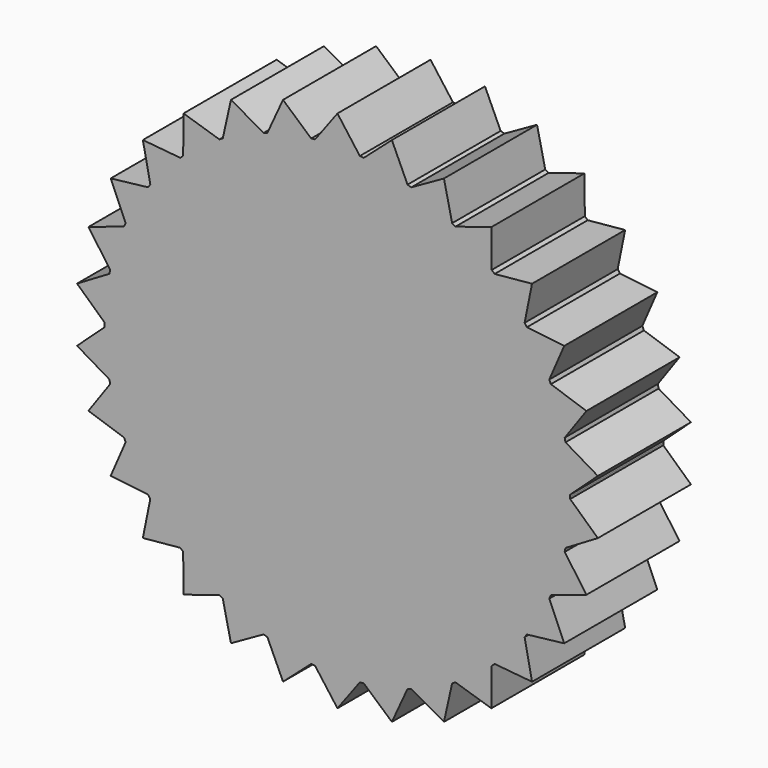
from build123d import *

# Parameters (mm, degrees)
F1_DEPTH = 12.7


with BuildPart() as f1:
    # F0 (on Front) → F1 (new body)
    with BuildSketch(Plane.XZ):
        with BuildLine():
            ThreePointArc((25.399116, -0.211948), (25.399779, -0.105975), (25.4, 0))
            ThreePointArc((25.4, 0), (25.399779, 0.105975), (25.399116, 0.211948))
            ThreePointArc((25.399116, 0.211948), (25.260856, 2.655023), (24.888151, 5.073456))
            ThreePointArc((24.888151, 5.073456), (24.844949, 5.280957), (24.800018, 5.48809))
            ThreePointArc((24.800018, 5.48809), (24.156836, 7.849032), (23.289454, 10.137127))
            ThreePointArc((23.289454, 10.137127), (23.204055, 10.331111), (23.11704, 10.524375))
            ThreePointArc((23.11704, 10.524375), (21.997045, 12.7), (20.672896, 14.757756))
            ThreePointArc((20.672896, 14.757756), (20.549032, 14.929745), (20.423736, 15.100695))
            ThreePointArc((20.423736, 15.100695), (18.875879, 16.995917), (17.152834, 18.7334))
            ThreePointArc((17.152834, 18.7334), (16.995917, 18.875879), (16.837817, 19.017043))
            ThreePointArc((16.837817, 19.017043), (14.929745, 20.549032), (12.88311, 21.890305))
            ThreePointArc((12.88311, 21.890305), (12.7, 21.997045), (12.516005, 22.102254))
            ThreePointArc((12.516005, 22.102254), (10.331111, 23.204055), (8.050333, 24.090499))
            ThreePointArc((8.050333, 24.090499), (7.849032, 24.156836), (7.647184, 24.22149))
            ThreePointArc((7.647184, 24.22149), (5.280957, 24.844949), (2.865718, 25.237822))
            ThreePointArc((2.865718, 25.237822), (2.655023, 25.260856), (2.444143, 25.282131))
            ThreePointArc((2.444143, 25.282131), (1.223492, 25.370516), (0, 25.4))
            ThreePointArc((0, 25.4), (-1.223492, 25.370516), (-2.444143, 25.282131))
            ThreePointArc((-2.444143, 25.282131), (-2.655023, 25.260856), (-2.865718, 25.237822))
            ThreePointArc((-2.865718, 25.237822), (-5.280957, 24.844949), (-7.647184, 24.22149))
            ThreePointArc((-7.647184, 24.22149), (-7.849032, 24.156836), (-8.050333, 24.090499))
            ThreePointArc((-8.050333, 24.090499), (-10.331111, 23.204055), (-12.516005, 22.102254))
            ThreePointArc((-12.516005, 22.102254), (-12.7, 21.997045), (-12.88311, 21.890305))
            ThreePointArc((-12.88311, 21.890305), (-14.929745, 20.549032), (-16.837817, 19.017043))
            ThreePointArc((-16.837817, 19.017043), (-16.995917, 18.875879), (-17.152834, 18.7334))
            ThreePointArc((-17.152834, 18.7334), (-18.875879, 16.995917), (-20.423736, 15.100695))
            ThreePointArc((-20.423736, 15.100695), (-20.549032, 14.929745), (-20.672896, 14.757756))
            ThreePointArc((-20.672896, 14.757756), (-21.997045, 12.7), (-23.11704, 10.524375))
            ThreePointArc((-23.11704, 10.524375), (-23.204055, 10.331111), (-23.289454, 10.137127))
            ThreePointArc((-23.289454, 10.137127), (-24.156836, 7.849032), (-24.800018, 5.48809))
            ThreePointArc((-24.800018, 5.48809), (-24.844949, 5.280957), (-24.888151, 5.073456))
            ThreePointArc((-24.888151, 5.073456), (-25.260856, 2.655023), (-25.399116, 0.211948))
            ThreePointArc((-25.399116, 0.211948), (-25.4, 0), (-25.399116, -0.211948))
            ThreePointArc((-25.399116, -0.211948), (-25.260856, -2.655023), (-24.888151, -5.073456))
            ThreePointArc((-24.888151, -5.073456), (-24.844949, -5.280957), (-24.800018, -5.48809))
            ThreePointArc((-24.800018, -5.48809), (-24.156836, -7.849032), (-23.289454, -10.137127))
            ThreePointArc((-23.289454, -10.137127), (-23.204055, -10.331111), (-23.11704, -10.524375))
            ThreePointArc((-23.11704, -10.524375), (-21.997045, -12.7), (-20.672896, -14.757756))
            ThreePointArc((-20.672896, -14.757756), (-20.549032, -14.929745), (-20.423736, -15.100695))
            ThreePointArc((-20.423736, -15.100695), (-18.875879, -16.995917), (-17.152834, -18.7334))
            ThreePointArc((-17.152834, -18.7334), (-16.995917, -18.875879), (-16.837817, -19.017043))
            ThreePointArc((-16.837817, -19.017043), (-14.929745, -20.549032), (-12.88311, -21.890305))
            ThreePointArc((-12.88311, -21.890305), (-12.7, -21.997045), (-12.516005, -22.102254))
            ThreePointArc((-12.516005, -22.102254), (-10.331111, -23.204055), (-8.050333, -24.090499))
            ThreePointArc((-8.050333, -24.090499), (-7.849032, -24.156836), (-7.647184, -24.22149))
            ThreePointArc((-7.647184, -24.22149), (-5.280957, -24.844949), (-2.865718, -25.237822))
            ThreePointArc((-2.865718, -25.237822), (-2.655023, -25.260856), (-2.444143, -25.282131))
            ThreePointArc((-2.444143, -25.282131), (0, -25.4), (2.444143, -25.282131))
            ThreePointArc((2.444143, -25.282131), (2.655023, -25.260856), (2.865718, -25.237822))
            ThreePointArc((2.865718, -25.237822), (5.280957, -24.844949), (7.647184, -24.22149))
            ThreePointArc((7.647184, -24.22149), (7.849032, -24.156836), (8.050333, -24.090499))
            ThreePointArc((8.050333, -24.090499), (10.331111, -23.204055), (12.516005, -22.102254))
            ThreePointArc((12.516005, -22.102254), (12.7, -21.997045), (12.88311, -21.890305))
            ThreePointArc((12.88311, -21.890305), (14.929745, -20.549032), (16.837817, -19.017043))
            ThreePointArc((16.837817, -19.017043), (16.995917, -18.875879), (17.152834, -18.7334))
            ThreePointArc((17.152834, -18.7334), (18.875879, -16.995917), (20.423736, -15.100695))
            ThreePointArc((20.423736, -15.100695), (20.549032, -14.929745), (20.672896, -14.757756))
            ThreePointArc((20.672896, -14.757756), (21.997045, -12.7), (23.11704, -10.524375))
            ThreePointArc((23.11704, -10.524375), (23.204055, -10.331111), (23.289454, -10.137127))
            ThreePointArc((23.289454, -10.137127), (24.156836, -7.849032), (24.800018, -5.48809))
            ThreePointArc((24.800018, -5.48809), (24.844949, -5.280957), (24.888151, -5.073456))
            ThreePointArc((24.888151, -5.073456), (25.260856, -2.655023), (25.399116, -0.211948))
        make_face()
        with BuildLine():
            ThreePointArc((24.888151, 5.073456), (25.260856, 2.655023), (25.399116, 0.211948))
            Line((25.399116, 0.211948), (28.418463, 2.986901))
            Line((28.418463, 2.986901), (24.888151, 5.073456))
        make_face()
        with BuildLine():
            Line((28.418463, -2.986901), (25.399116, -0.211948))
            ThreePointArc((25.399116, -0.211948), (25.260856, -2.655023), (24.888151, -5.073456))
            Line((24.888151, -5.073456), (28.418463, -2.986901))
        make_face()
        with BuildLine():
            ThreePointArc((23.289454, 10.137127), (24.156836, 7.849032), (24.800018, 5.48809))
            Line((24.800018, 5.48809), (27.17644, 8.830161))
            Line((27.17644, 8.830161), (23.289454, 10.137127))
        make_face()
        with BuildLine():
            Line((27.17644, -8.830161), (24.800018, -5.48809))
            ThreePointArc((24.800018, -5.48809), (24.156836, -7.849032), (23.289454, -10.137127))
            Line((23.289454, -10.137127), (27.17644, -8.830161))
        make_face()
        with BuildLine():
            ThreePointArc((20.672896, 14.757756), (21.997045, 12.7), (23.11704, 10.524375))
            Line((23.11704, 10.524375), (24.746676, 14.2875))
            Line((24.746676, 14.2875), (20.672896, 14.757756))
        make_face()
        with BuildLine():
            Line((24.746676, -14.2875), (23.11704, -10.524375))
            ThreePointArc((23.11704, -10.524375), (21.997045, -12.7), (20.672896, -14.757756))
            Line((20.672896, -14.757756), (24.746676, -14.2875))
        make_face()
        with BuildLine():
            ThreePointArc((17.152834, 18.7334), (18.875879, 16.995917), (20.423736, 15.100695))
            Line((20.423736, 15.100695), (21.235363, 19.120407))
            Line((21.235363, 19.120407), (17.152834, 18.7334))
        make_face()
        with BuildLine():
            Line((21.235363, -19.120407), (20.423736, -15.100695))
            ThreePointArc((20.423736, -15.100695), (18.875879, -16.995917), (17.152834, -18.7334))
            Line((17.152834, -18.7334), (21.235363, -19.120407))
        make_face()
        with BuildLine():
            ThreePointArc((12.88311, 21.890305), (14.929745, 20.549032), (16.837817, 19.017043))
            Line((16.837817, 19.017043), (16.795964, 23.117661))
            Line((16.795964, 23.117661), (12.88311, 21.890305))
        make_face()
        with BuildLine():
            Line((16.795964, -23.117661), (16.837817, -19.017043))
            ThreePointArc((16.837817, -19.017043), (14.929745, -20.549032), (12.88311, -21.890305))
            Line((12.88311, -21.890305), (16.795964, -23.117661))
        make_face()
        with BuildLine():
            ThreePointArc((8.050333, 24.090499), (10.331111, 23.204055), (12.516005, 22.102254))
            Line((12.516005, 22.102254), (11.6225, 26.104561))
            Line((11.6225, 26.104561), (8.050333, 24.090499))
        make_face()
        with BuildLine():
            Line((11.6225, -26.104561), (12.516005, -22.102254))
            ThreePointArc((12.516005, -22.102254), (10.331111, -23.204055), (8.050333, -24.090499))
            Line((8.050333, -24.090499), (11.6225, -26.104561))
        make_face()
        with BuildLine():
            ThreePointArc((2.865718, 25.237822), (5.280957, 24.844949), (7.647184, 24.22149))
            Line((7.647184, 24.22149), (5.941077, 27.950568))
            Line((5.941077, 27.950568), (2.865718, 25.237822))
        make_face()
        with BuildLine():
            Line((5.941077, -27.950568), (7.647184, -24.22149))
            ThreePointArc((7.647184, -24.22149), (5.280957, -24.844949), (2.865718, -25.237822))
            Line((2.865718, -25.237822), (5.941077, -27.950568))
        make_face()
        with BuildLine():
            ThreePointArc((0, 25.4), (1.223492, 25.370516), (2.444143, 25.282131))
            Line((2.444143, 25.282131), (0, 28.575))
            Line((0, 28.575), (0, 25.4))
        make_face()
        with BuildLine():
            Line((0, -28.575), (2.444143, -25.282131))
            ThreePointArc((2.444143, -25.282131), (0, -25.4), (-2.444143, -25.282131))
            Line((-2.444143, -25.282131), (0, -28.575))
        make_face()
        with BuildLine():
            ThreePointArc((-2.444143, 25.282131), (-1.223492, 25.370516), (0, 25.4))
            Line((0, 25.4), (0, 28.575))
            Line((0, 28.575), (-2.444143, 25.282131))
        make_face()
        with BuildLine():
            Line((-5.941077, -27.950568), (-2.865718, -25.237822))
            ThreePointArc((-2.865718, -25.237822), (-5.280957, -24.844949), (-7.647184, -24.22149))
            Line((-7.647184, -24.22149), (-5.941077, -27.950568))
        make_face()
        with BuildLine():
            ThreePointArc((-7.647184, 24.22149), (-5.280957, 24.844949), (-2.865718, 25.237822))
            Line((-2.865718, 25.237822), (-5.941077, 27.950568))
            Line((-5.941077, 27.950568), (-7.647184, 24.22149))
        make_face()
        with BuildLine():
            Line((-11.6225, -26.104561), (-8.050333, -24.090499))
            ThreePointArc((-8.050333, -24.090499), (-10.331111, -23.204055), (-12.516005, -22.102254))
            Line((-12.516005, -22.102254), (-11.6225, -26.104561))
        make_face()
        with BuildLine():
            ThreePointArc((-12.516005, 22.102254), (-10.331111, 23.204055), (-8.050333, 24.090499))
            Line((-8.050333, 24.090499), (-11.6225, 26.104561))
            Line((-11.6225, 26.104561), (-12.516005, 22.102254))
        make_face()
        with BuildLine():
            Line((-16.795964, -23.117661), (-12.88311, -21.890305))
            ThreePointArc((-12.88311, -21.890305), (-14.929745, -20.549032), (-16.837817, -19.017043))
            Line((-16.837817, -19.017043), (-16.795964, -23.117661))
        make_face()
        with BuildLine():
            ThreePointArc((-16.837817, 19.017043), (-14.929745, 20.549032), (-12.88311, 21.890305))
            Line((-12.88311, 21.890305), (-16.795964, 23.117661))
            Line((-16.795964, 23.117661), (-16.837817, 19.017043))
        make_face()
        with BuildLine():
            Line((-21.235363, -19.120407), (-17.152834, -18.7334))
            ThreePointArc((-17.152834, -18.7334), (-18.875879, -16.995917), (-20.423736, -15.100695))
            Line((-20.423736, -15.100695), (-21.235363, -19.120407))
        make_face()
        with BuildLine():
            ThreePointArc((-20.423736, 15.100695), (-18.875879, 16.995917), (-17.152834, 18.7334))
            Line((-17.152834, 18.7334), (-21.235363, 19.120407))
            Line((-21.235363, 19.120407), (-20.423736, 15.100695))
        make_face()
        with BuildLine():
            Line((-24.746676, -14.2875), (-20.672896, -14.757756))
            ThreePointArc((-20.672896, -14.757756), (-21.997045, -12.7), (-23.11704, -10.524375))
            Line((-23.11704, -10.524375), (-24.746676, -14.2875))
        make_face()
        with BuildLine():
            ThreePointArc((-23.11704, 10.524375), (-21.997045, 12.7), (-20.672896, 14.757756))
            Line((-20.672896, 14.757756), (-24.746676, 14.2875))
            Line((-24.746676, 14.2875), (-23.11704, 10.524375))
        make_face()
        with BuildLine():
            Line((-27.17644, -8.830161), (-23.289454, -10.137127))
            ThreePointArc((-23.289454, -10.137127), (-24.156836, -7.849032), (-24.800018, -5.48809))
            Line((-24.800018, -5.48809), (-27.17644, -8.830161))
        make_face()
        with BuildLine():
            ThreePointArc((-24.800018, 5.48809), (-24.156836, 7.849032), (-23.289454, 10.137127))
            Line((-23.289454, 10.137127), (-27.17644, 8.830161))
            Line((-27.17644, 8.830161), (-24.800018, 5.48809))
        make_face()
        with BuildLine():
            Line((-28.418463, -2.986901), (-24.888151, -5.073456))
            ThreePointArc((-24.888151, -5.073456), (-25.260856, -2.655023), (-25.399116, -0.211948))
            Line((-25.399116, -0.211948), (-28.418463, -2.986901))
        make_face()
        with BuildLine():
            ThreePointArc((-25.399116, 0.211948), (-25.260856, 2.655023), (-24.888151, 5.073456))
            Line((-24.888151, 5.073456), (-28.418463, 2.986901))
            Line((-28.418463, 2.986901), (-25.399116, 0.211948))
        make_face()
    extrude(amount=F1_DEPTH)


solid = f1.part
